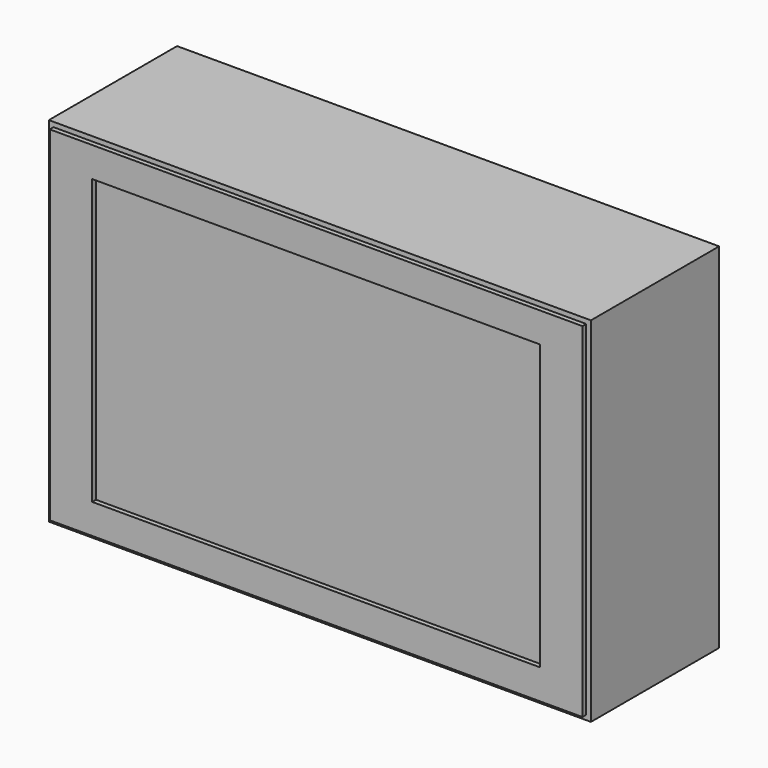
from build123d import *

# Parameters (mm, degrees)
F0_W     = 584.2
F0_H     = 381
F1_DEPTH = 177.8
F2_W     = 584.2
F2_H     = 381
F2_W_2   = 574.04
F2_H_2   = 370.84
F2_W_3   = 482.6
F2_H_3   = 306.317002
F3_DEPTH = 5.08


with BuildPart() as f1:
    # F0 (on Front) → F1 (new body)
    with BuildSketch(Plane.XZ):
        Rectangle(F0_W, F0_H)
    extrude(amount=F1_DEPTH)

    # F2 (on face) → F3 (cut)
    with BuildSketch(Plane.XZ.offset(177.8)):
        Rectangle(F2_W, F2_H)
        Rectangle(F2_W_2, F2_H_2, mode=Mode.SUBTRACT)
        Rectangle(F2_W_3, F2_H_3)
    extrude(amount=-F3_DEPTH, mode=Mode.SUBTRACT)


solid = f1.part
